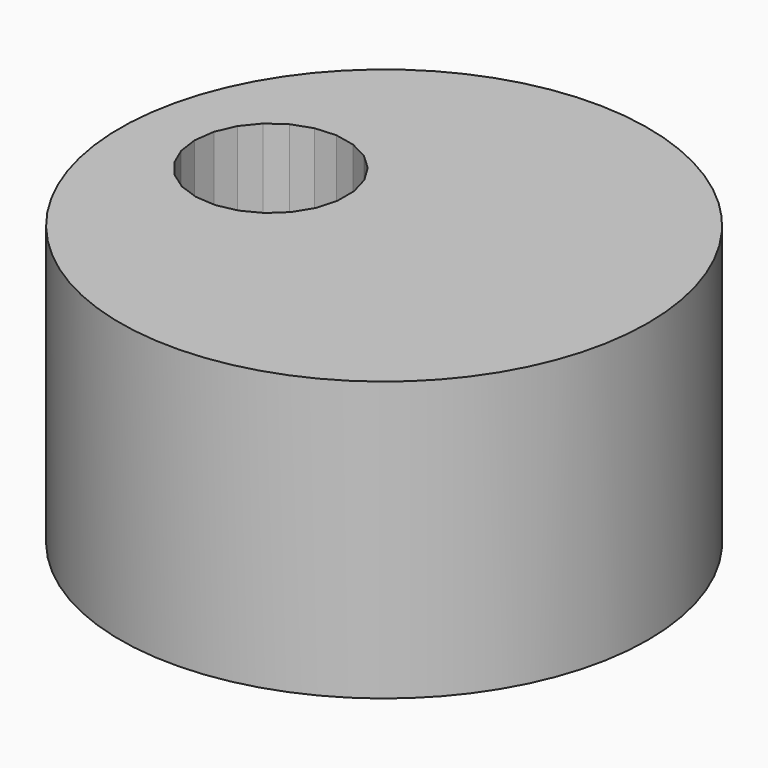
from build123d import *

# Parameters (mm, degrees)
F0_R     = 24.032637
F1_DEPTH = 25.4
F4_DEPTH = 25.4


with BuildPart() as f1:
    # F0 (on Top) → F1 (new body)
    with BuildSketch(Plane.XY):
        with Locations((-54.657374, -52.691873)):
            Circle(F0_R)
    extrude(amount=F1_DEPTH)

    # F3 (on face) → F4 (cut)
    with BuildSketch(Plane.XY.offset(25.4)):
        Polygon((-59.62842, -51.786393), (-59.62842, -49.905717), (-60.13582, -48.094782), (-61.112989, -46.487896), (-62.487454, -45.204235), (-64.157278, -44.339002), (-65.998618, -43.956367), (-67.874909, -44.084709), (-69.646996, -44.714509), (-71.183452, -45.799058), (-72.370324, -47.257919), (-73.119587, -48.982896), (-73.375672, -50.846055), (-73.119587, -52.709214), (-72.370324, -54.434191), (-71.183452, -55.893052), (-69.646996, -56.977601), (-67.874909, -57.607401), (-65.998618, -57.735743), (-64.157278, -57.353108), (-62.487454, -56.487875), (-61.112989, -55.204214), (-60.13582, -53.597328), align=None)
    extrude(amount=-F4_DEPTH, mode=Mode.SUBTRACT)


solid = f1.part
